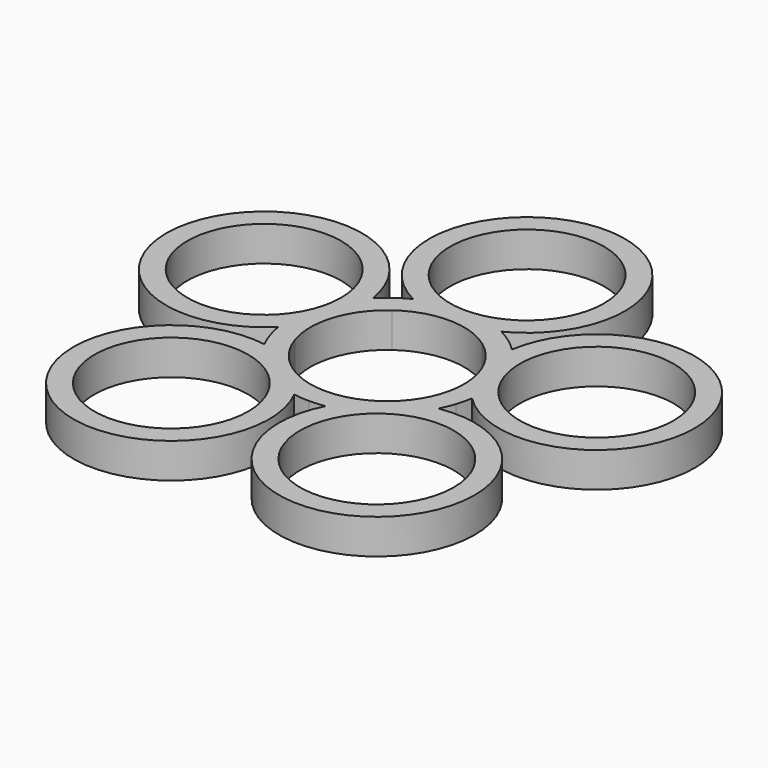
from build123d import *

# Parameters (mm, degrees)
F0_R     = 11
F1_DEPTH = 5


with BuildPart() as f1:
    # F0 (on Top) → F1 (new body)
    with BuildSketch(Plane.XY):
        with BuildLine():
            ThreePointArc((8.228994, 11.326238), (7.290537, 11.951907), (6.30476, 12.5))
            ThreePointArc((6.30476, 12.5), (0, 39), (-6.30476, 12.5))
            ThreePointArc((-6.30476, 12.5), (-7.290537, 11.951907), (-8.228994, 11.326238))
            ThreePointArc((-8.228994, 11.326238), (-9.114039, 10.627055), (-9.939928, 9.858896))
            ThreePointArc((-9.939928, 9.858896), (-37.091204, 12.051663), (-13.836484, -2.133471))
            ThreePointArc((-13.836484, -2.133471), (-13.619838, -3.24037), (-13.314791, -4.326238))
            ThreePointArc((-13.314791, -4.326238), (-12.923323, -5.384026), (-12.447974, -6.406867))
            ThreePointArc((-12.447974, -6.406867), (-22.923625, -31.551663), (-2.246658, -13.818557))
            ThreePointArc((-2.246658, -13.818557), (-1.126986, -13.954566), (0, -14))
            ThreePointArc((0, -14), (1.126986, -13.954566), (2.246658, -13.818557))
            ThreePointArc((2.246658, -13.818557), (22.923625, -31.551663), (12.447974, -6.406867))
            ThreePointArc((12.447974, -6.406867), (12.923323, -5.384026), (13.314791, -4.326238))
            ThreePointArc((13.314791, -4.326238), (13.619838, -3.24037), (13.836484, -2.133471))
            ThreePointArc((13.836484, -2.133471), (37.091204, 12.051663), (9.939928, 9.858896))
            ThreePointArc((9.939928, 9.858896), (9.114039, 10.627055), (8.228994, 11.326238))
        make_face()
        with Locations((-14.694631, -20.225425)):
            Circle(F0_R, mode=Mode.SUBTRACT)
        with Locations((14.694631, -20.225425)):
            Circle(F0_R, mode=Mode.SUBTRACT)
        with BuildLine():
            ThreePointArc((-6.465638, 8.899187), (0, 11), (6.465638, 8.899187))
            ThreePointArc((6.465638, 8.899187), (10.461622, 3.399187), (10.461622, -3.399187))
            ThreePointArc((10.461622, -3.399187), (6.465638, -8.899187), (0, -11))
            ThreePointArc((0, -11), (-6.465638, -8.899187), (-10.461622, -3.399187))
            ThreePointArc((-10.461622, -3.399187), (-10.461622, 3.399187), (-6.465638, 8.899187))
        make_face(mode=Mode.SUBTRACT)
        with Locations((-23.776413, 7.725425)):
            Circle(F0_R, mode=Mode.SUBTRACT)
        with Locations((23.776413, 7.725425)):
            Circle(F0_R, mode=Mode.SUBTRACT)
        with Locations((0, 25)):
            Circle(F0_R, mode=Mode.SUBTRACT)
    extrude(amount=F1_DEPTH)


solid = f1.part
